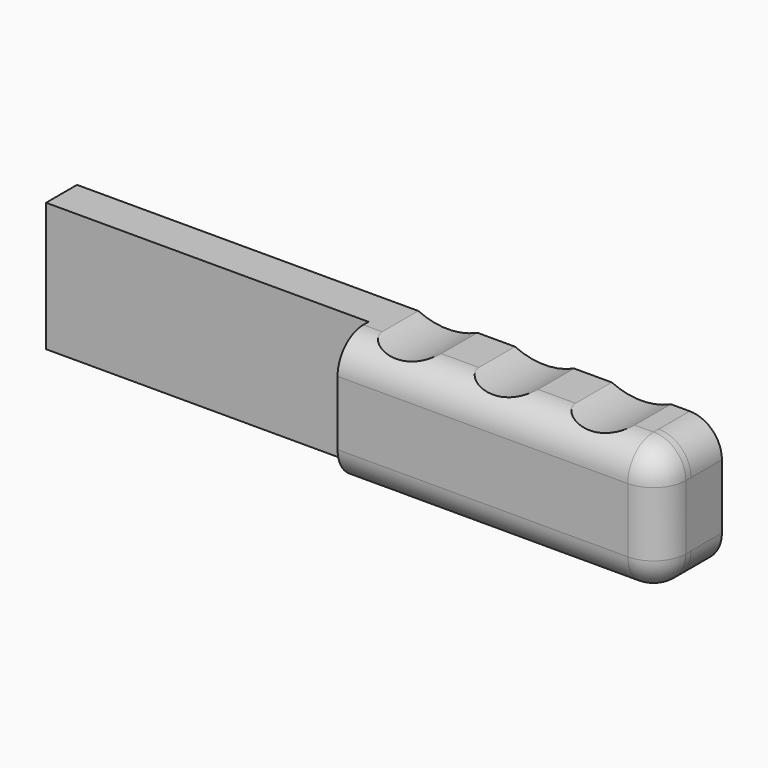
from build123d import *

# Parameters (mm, degrees)
F0_W     = 100
F0_H     = 20
F1_DEPTH = 6
F2_R     = 5
F4_DEPTH = 6
F5_R     = 5
F7_DEPTH = 37


with BuildPart() as f1:
    # F0 (on Front) → F1 (new body)
    with BuildSketch(Plane.XZ):
        Rectangle(F0_W, F0_H)
    extrude(amount=F1_DEPTH)

    # F2
    f2_edges = [f1.edges().sort_by_distance(p)[0] for p in [
        (50, -3, 10),
        (50, -3, -10),
    ]]
    fillet(f2_edges, radius=F2_R)

    # F3 (on face) → F4 (join)
    with BuildSketch(Plane.XZ.offset(6)):
        with BuildLine():
            Line((45, 10), (0, 10))
            Line((0, 10), (0, -10))
            Line((0, -10), (45, -10))
            ThreePointArc((45, -10), (48.5355339059, -8.5355339059), (50, -5))
            Line((50, -5), (50, 5))
            ThreePointArc((50, 5), (48.5355339059, 8.5355339059), (45, 10))
        make_face()
    extrude(amount=F4_DEPTH)

    # F5
    f5_edges = [f1.edges().sort_by_distance(p)[0] for p in [
        (22.5, -12, 10),
    ]]
    fillet(f5_edges, radius=F5_R)

    # F6 (on Front) → F7 (cut)
    with BuildSketch(Plane.XZ):
        with BuildLine():
            ThreePointArc((15, 11.9532615303), (12.4128794991, 15.6125178063), (11.5, 20))
            ThreePointArc((11.5, 20), (12.4128794991, 24.3874821937), (15, 28.0467384697))
            ThreePointArc((15, 28.0467384697), (-3.5, 20), (15, 11.9532615303))
        make_face()
        with BuildLine():
            ThreePointArc((48.5, 20), (41.8874821937, 30.0871205009), (30, 28.0467384697))
            ThreePointArc((30, 28.0467384697), (32.5871205009, 24.3874821937), (33.5, 20))
            ThreePointArc((33.5, 20), (32.5871205009, 15.6125178063), (30, 11.9532615303))
            ThreePointArc((30, 11.9532615303), (41.8874821937, 9.9128794991), (48.5, 20))
        make_face()
        with BuildLine():
            Line((26.5, 20), (18.5, 20))
            ThreePointArc((18.5, 20), (17.5871205009, 15.6125178063), (15, 11.9532615303))
            ThreePointArc((15, 11.9532615303), (22.5, 9), (30, 11.9532615303))
            ThreePointArc((30, 11.9532615303), (27.4128794991, 15.6125178063), (26.5, 20))
        make_face()
        with BuildLine():
            ThreePointArc((15, -28.0467384697), (11.5, -20), (15, -11.9532615303))
            ThreePointArc((15, -11.9532615303), (-3.5, -20), (15, -28.0467384697))
        make_face()
        with BuildLine():
            ThreePointArc((15, -11.9532615303), (17.5871205009, -15.6125178063), (18.5, -20))
            ThreePointArc((18.5, -20), (17.5871205009, -24.3874821937), (15, -28.0467384697))
            ThreePointArc((15, -28.0467384697), (22.5, -31), (30, -28.0467384697))
            ThreePointArc((30, -28.0467384697), (26.5, -20), (30, -11.9532615303))
            ThreePointArc((30, -11.9532615303), (22.5, -9), (15, -11.9532615303))
        make_face()
        with BuildLine():
            ThreePointArc((48.5, -20), (41.8874821937, -9.9128794991), (30, -11.9532615303))
            ThreePointArc((30, -11.9532615303), (32.5871205009, -15.6125178063), (33.5, -20))
            ThreePointArc((33.5, -20), (32.5871205009, -24.3874821937), (30, -28.0467384697))
            ThreePointArc((30, -28.0467384697), (41.8874821937, -30.0871205009), (48.5, -20))
        make_face()
    extrude(amount=F7_DEPTH, mode=Mode.SUBTRACT)


solid = f1.part
